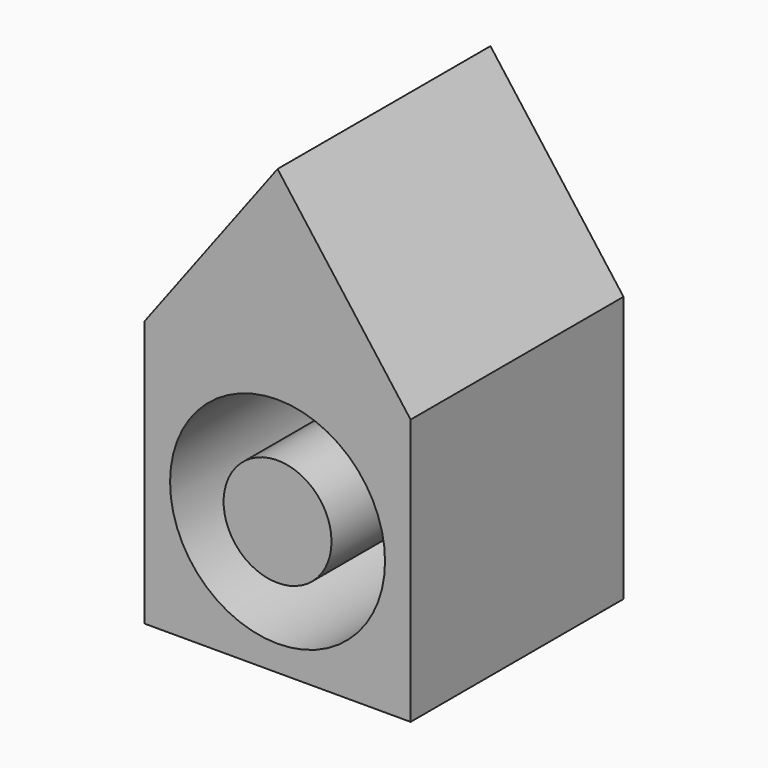
from build123d import *

# Parameters (mm, degrees)
F0_W     = 76.2
F0_H     = 76.2
F1_DEPTH = 76.2
F2_R     = 30.775426
F2_R_2   = 15.448367
F3_DEPTH = 76.201


with BuildPart() as f1:
    # F0 (on Front) → F1 (new body)
    with BuildSketch(Plane.XZ):
        Polygon((0, 88.9), (-38.1, 38.1), (38.1, 38.1), align=None)
        Rectangle(F0_W, F0_H)
    extrude(amount=F1_DEPTH)

    # F2 (on face) → F3 (cut, through all)
    with BuildSketch(Plane.XZ.offset(76.2)):
        Circle(F2_R)
        Circle(F2_R_2, mode=Mode.SUBTRACT)
    extrude(amount=-F3_DEPTH, mode=Mode.SUBTRACT)


solid = f1.part
